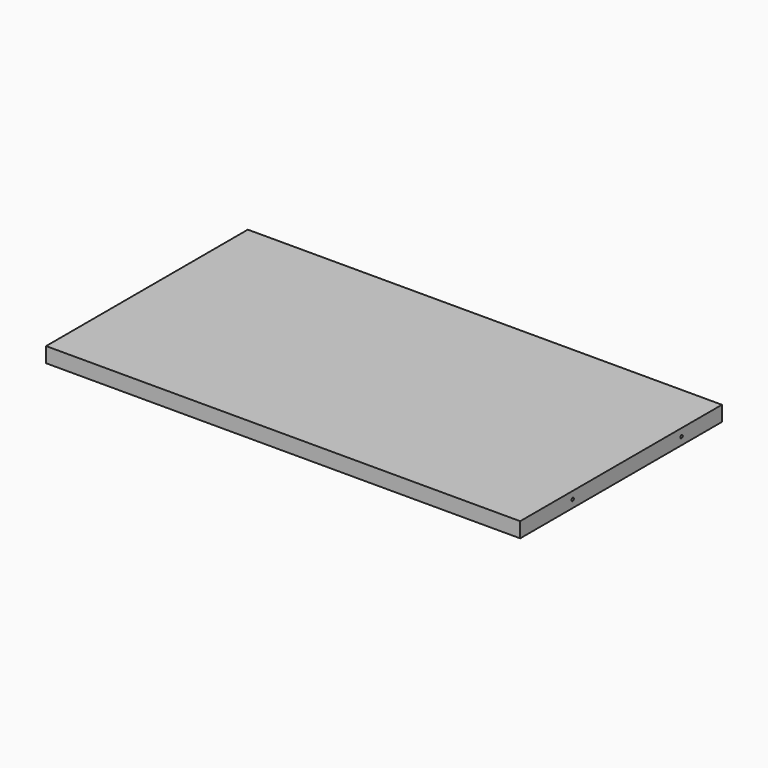
from build123d import *

# Parameters (mm, degrees)
F0_W      = 940
F0_H      = 500
F1_DEPTH  = 30
F2_R      = 3
F3_DEPTH  = 12
F4_R      = 3
F5_DEPTH  = 12
F6_R      = 3
F7_DEPTH  = 12
F8_R      = 3
F9_DEPTH  = 12
F10_R     = 3
F11_DEPTH = 12


with BuildPart() as f1:
    # F0 (on Top) → F1 (new body)
    with BuildSketch(Plane.XY):
        with Locations((470, 250)):
            Rectangle(F0_W, F0_H)
    extrude(amount=F1_DEPTH)

    # F2 (on face) → F3 (cut)
    with BuildSketch(Plane.YZ.offset(940)):
        with Locations((130, 15)):
            Circle(F2_R)
    extrude(amount=-F3_DEPTH, mode=Mode.SUBTRACT)

    # F4 (on face) → F5 (cut)
    with BuildSketch(Plane.YZ.offset(940)):
        with Locations((400, 15)):
            Circle(F4_R)
    extrude(amount=-F5_DEPTH, mode=Mode.SUBTRACT)

    # F6 (on face) → F7 (cut)
    with BuildSketch(Plane(origin=(0, 0, 0), x_dir=(0, -1, 0), z_dir=(-1, 0, 0))):
        with Locations((-400, 15)):
            Circle(F6_R)
    extrude(amount=-F7_DEPTH, mode=Mode.SUBTRACT)

    # F8 (on face) → F9 (cut)
    with BuildSketch(Plane(origin=(0, 0, 0), x_dir=(0, -1, 0), z_dir=(-1, 0, 0))):
        with Locations((-130, 15)):
            Circle(F8_R)
    extrude(amount=-F9_DEPTH, mode=Mode.SUBTRACT)

    # F10 (on face) → F11 (cut)
    with BuildSketch(Plane(origin=(0, 500, 0), x_dir=(-1, 0, 0), z_dir=(0, 1, 0))):
        with Locations((-740, 15)):
            Circle(F10_R)
        with Locations((-200, 15)):
            Circle(F10_R)
    extrude(amount=-F11_DEPTH, mode=Mode.SUBTRACT)


solid = f1.part
